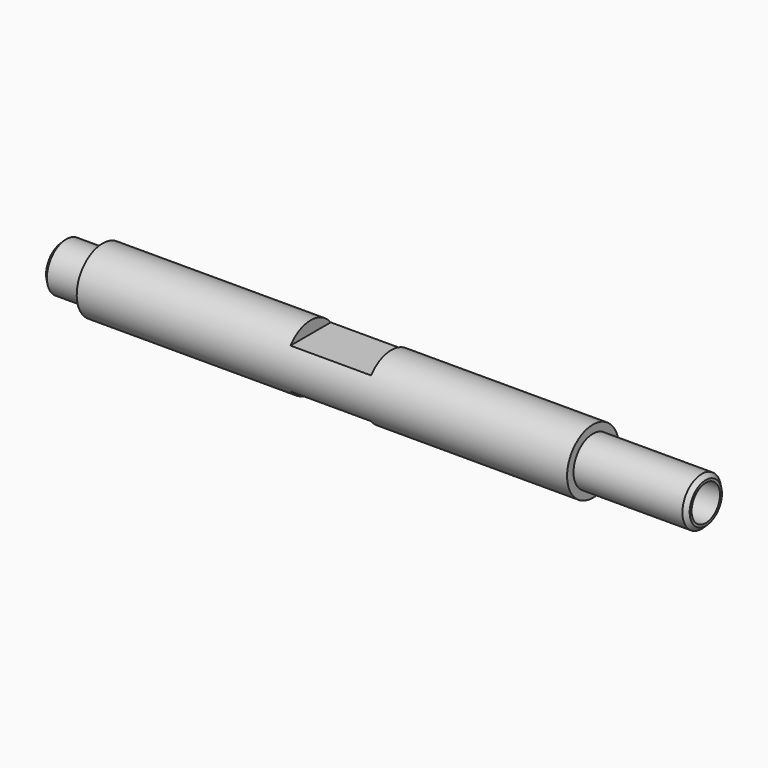
from build123d import *

# Parameters (mm, degrees)
F0_W     = 5
F0_H     = 3
F0_W_2   = 14
F2_W     = 10
F2_H     = 1.5
F3_DEPTH = 12.5
F5_D     = 4.4
F5_DEPTH = 14
F5_TIP   = 1.3218933619
F7_D     = 4.4
F7_DEPTH = 14
F7_TIP   = 1.3218933619
F8_SIZE  = 0.5


with BuildPart() as f1:
    # F0 (on Front) → F1 (revolve)
    with BuildSketch(Plane.XZ):
        Polygon((0, 3), (0, 0), (60.8, 0), (60.8, 3), (60.8, 4), (0, 4), align=None)
        with Locations((-2.5, 1.5)):
            Rectangle(F0_W, F0_H)
        with Locations((67.8, 1.5)):
            Rectangle(F0_W_2, F0_H)
    revolve(axis=Axis((30.4, 0, 0), (-1, 0, 0)))

    # F2 (on Front) → F3 (cut, symmetric)
    with BuildSketch(Plane.XZ):
        with Locations((30.8, 3.25)):
            Rectangle(F2_W, F2_H)
        with Locations((30.8, -3.25)):
            Rectangle(F2_W, F2_H)
    extrude(amount=F3_DEPTH, both=True, mode=Mode.SUBTRACT)

    # F5
    with Locations(Plane.YZ.offset(74.8)):
        with Locations((0, 0)):
            Hole(F5_D / 2, depth=F5_DEPTH)
            with Locations((0, 0, -(F5_DEPTH + F5_TIP / 2))):  # 118° drill point
                Cone(0, F5_D / 2, F5_TIP, mode=Mode.SUBTRACT)

    # F7
    with Locations(Plane(origin=(-5, 0, 0), x_dir=(0, -1, 0), z_dir=(-1, 0, 0))):
        with Locations((0, 0)):
            Hole(F7_D / 2, depth=F7_DEPTH)
            with Locations((0, 0, -(F7_DEPTH + F7_TIP / 2))):  # 118° drill point
                Cone(0, F7_D / 2, F7_TIP, mode=Mode.SUBTRACT)

    # F8
    f8_edges = [f1.edges().sort_by_distance(p)[0] for p in [
        (-5, 0, -3),
        (74.8, 0, -3),
    ]]
    chamfer(f8_edges, length=F8_SIZE)


solid = f1.part
